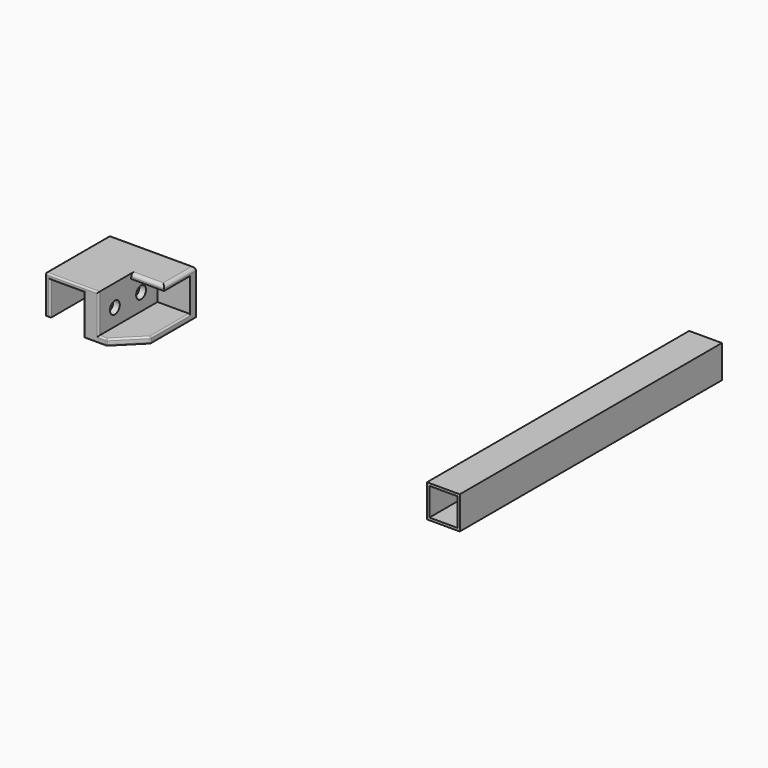
from build123d import *

# Parameters (mm, degrees)
SKETCH_W        = 20
SKETCH_H        = 20
SKETCH_W_2      = 17
SKETCH_H_2      = 17
PAD_DEPTH       = 100
PAD001_DEPTH    = 50
SKETCH002_W     = 20
SKETCH002_H     = 3
POCKET_DEPTH    = 25
SKETCH003_W     = 20.5
SKETCH003_H     = 5
PAD002_DEPTH    = 20
POCKET001_DEPTH = 5
SKETCH005_R     = 3.75
POCKET002_DEPTH = 4
SKETCH006_R     = 1.8
POCKET003_DEPTH = 5
FILLET_R        = 1
FILLET001_R     = 2
FILLET002_R     = 0.9


with BuildPart() as aluprofil:
    # Sketch → Pad (new body, symmetric)
    with BuildSketch(Plane.XZ):
        with Locations((-10, 10)):
            Rectangle(SKETCH_W, SKETCH_H)
        with Locations((-10, 10)):
            Rectangle(SKETCH_W_2, SKETCH_H_2, mode=Mode.SUBTRACT)
    extrude(amount=PAD_DEPTH, both=True)


with BuildPart() as obj1:
    # Sketch001 → Pad001 (new body)
    with BuildSketch(Plane.XZ):
        Polygon((0, 0), (0, 20.5), (-20.5, 20.5), (-20.5, -4), (-49.5, -4), (-49.5, 0), (-29.5, 0), (-29.5, 20.5), (-49.5, 20.5), (-49.5, 23.5), (3, 23.5), (3, 0), align=None)
    extrude(amount=PAD001_DEPTH)

    # Sketch002 (on Face14 of Pad001) → Pocket (cut)
    with BuildSketch(Plane.XZ.offset(50)):
        with Locations((-39.5, 22)):
            Rectangle(SKETCH002_W, SKETCH002_H)
    extrude(amount=-POCKET_DEPTH, mode=Mode.SUBTRACT)

    # Sketch003 (on Face11 of Pocket) → Pad002 (join)
    with BuildSketch(Plane(origin=(-29.5, 0, 0), x_dir=(0, 0, -1), z_dir=(-1, 0, 0))):
        with Locations((-10.25, 2.5)):
            Rectangle(SKETCH003_W, SKETCH003_H)
    extrude(amount=PAD002_DEPTH)

    # Sketch004 (on Face15 of Pad002) → Pocket001 (cut)
    with BuildSketch(Plane(origin=(0, 0, 0), x_dir=(-1, 0, 0), z_dir=(0, 0, 1))):
        Polygon((34.5, 50), (49.5, 35), (49.5, 50), align=None)
    extrude(amount=-POCKET001_DEPTH, mode=Mode.SUBTRACT)

    # Sketch005 (on Face14 of Pocket001) → Pocket002 (cut)
    with BuildSketch(Plane(origin=(-29.5, 0, 0), x_dir=(0, 0, -1), z_dir=(-1, 0, 0))):
        with Locations((-10.25, 37.5)):
            Circle(SKETCH005_R)
        with Locations((-10.25, 17.5)):
            Circle(SKETCH005_R)
    extrude(amount=-POCKET002_DEPTH, mode=Mode.SUBTRACT)

    # Sketch006 (on Face23 of Pocket002) → Pocket003 (cut)
    with BuildSketch(Plane(origin=(-25.5, 0, 0), x_dir=(0, 0, -1), z_dir=(-1, 0, 0))):
        with Locations((-10.25, 37.5)):
            Circle(SKETCH006_R)
        with Locations((-10.25, 17.5)):
            Circle(SKETCH006_R)
    extrude(amount=-POCKET003_DEPTH, mode=Mode.SUBTRACT)

    # Fillet
    fillet_edges = [obj1.edges().sort_by_distance(p)[0] for p in [
        (3, -50, 11.75),
        (-13.25, -50, 23.5),
        (-29.5, -50, 22),
        (-29.5, -50, 10.25),
        (-32, -50, 0),
        (-34.5, -50, -2),
        (-27.5, -50, -4),
        (-20.5, -50, 8.25),
        (-10.25, -50, 20.5),
        (0, -50, 10.25),
        (1.5, -50, 0),
        (-42, -42.5, 0),
        (-49.5, -35, -2),
        (-42, -42.5, -4),
        (-49.5, 0, -2),
        (-49.5, -2.5, 0),
        (-49.5, -20, 0),
        (-49.5, -17.5, -4),
    ]]
    fillet(fillet_edges, radius=FILLET_R)

    # Fillet001
    fillet001_edges = [obj1.edges().sort_by_distance(p)[0] for p in [
        (-49.5, -13, 23.5),
        (-39.5, -25, 23.5),
    ]]
    fillet(fillet001_edges, radius=FILLET001_R)

    # Fillet002
    fillet002_edges = [obj1.edges().sort_by_distance(p)[0] for p in [
        (3, -25.5, 23.5),
        (3, -0.585786, 22.914214),
        (3, 0, 10.75),
    ]]
    fillet(fillet002_edges, radius=FILLET002_R)


with BuildPart() as part_mirroring:
    # Part__Mirroring: instance of obj1
    add(obj1.part.mirror(Plane(origin=(0, 0, 0), x_dir=(0, -1, 0), z_dir=(1, 0, 0))))


with BuildPart() as part_mirroring_1:
    # Part__Mirroring placement: moved
    add(part_mirroring.part.moved(Location((-290, 0, 0))))


solid = Compound([aluprofil.part, part_mirroring_1.part])
